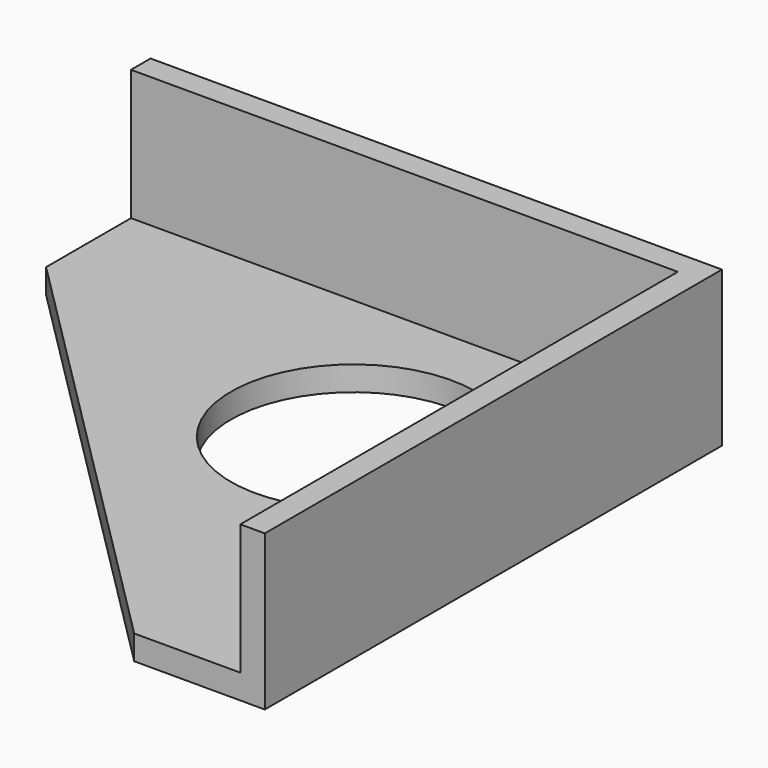
from build123d import *

# Parameters (mm, degrees)
F1_DEPTH = 3.81
F3_DEPTH = 20.32
F4_R     = 19.05
F5_DEPTH = 39.624


with BuildPart() as f1:
    # F0 (on Top) → F1 (new body)
    with BuildSketch(Plane.XY):
        Polygon((24.13, -44.45), (44.45, -44.45), (44.45, 44.45), (-44.45, 44.45), (-44.45, 24.13), align=None)
    extrude(amount=F1_DEPTH)

    # F2 (on face) → F3 (join)
    with BuildSketch(Plane.XY.offset(3.81)):
        Polygon((40.64, 44.45), (-44.45, 44.45), (-44.45, 40.64), (40.64, 40.64), (40.64, -44.45), (44.45, -44.45), (44.45, 40.64), (44.45, 44.45), align=None)
    extrude(amount=F3_DEPTH)

    # F4 (on face) → F5 (cut)
    with BuildSketch(Plane.XY.offset(3.81)):
        with Locations((12.604465, 12.604465)):
            Circle(F4_R)
    extrude(amount=-F5_DEPTH, mode=Mode.SUBTRACT)


solid = f1.part
